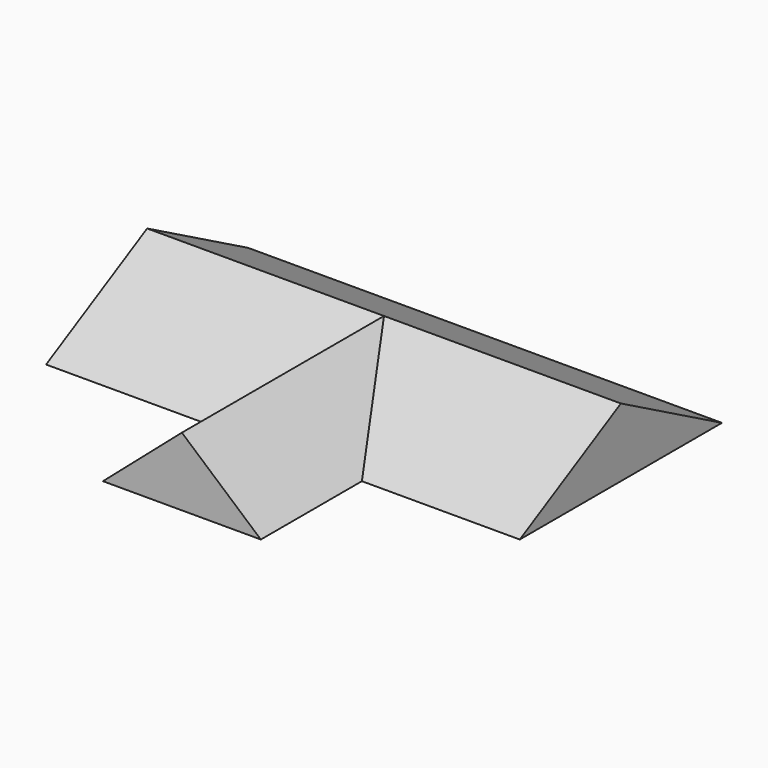
from build123d import *

# Parameters (mm, degrees)
F2_DEPTH = 4876.8
F3_DEPTH = 4572


with BuildPart() as f2:
    # F1 (on Front) → F2 (new body)
    with BuildSketch(Plane.XZ):
        Polygon((-1524, -1320.849362), (1524, -1320.849362), (0, 0), align=None)
    extrude(amount=F2_DEPTH)

    # F0 (on Right) → F3 (join, symmetric)
    with BuildSketch(Plane.YZ):
        Polygon((-2438.4, -1320.849362), (2438.4, -1320.849362), (0, 0), align=None)
    extrude(amount=F3_DEPTH, both=True)


solid = f2.part
